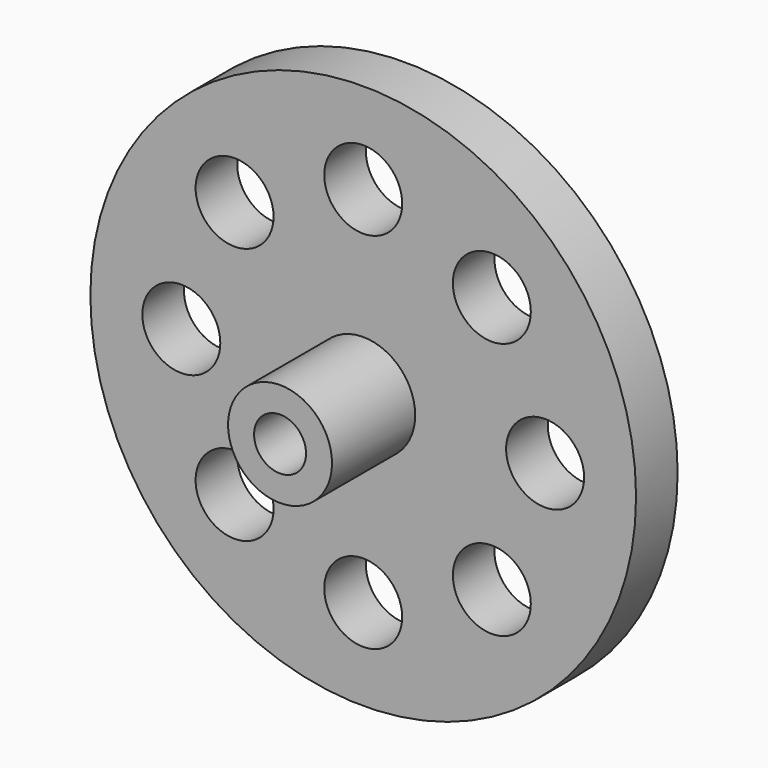
from build123d import *

# Parameters (mm, degrees)
F0_R     = 16.66875
F1_DEPTH = 3.175
F2_R     = 3.175
F3_DEPTH = 6.35
F4_R     = 1.5875
F5_DEPTH = 3.81
F6_R     = 2.38125
F7_DEPTH = 25.4
F8_R     = 1.5875
F9_DEPTH = 1.5875


with BuildPart() as f1:
    # F0 (on Front) → F1 (new body)
    with BuildSketch(Plane.XZ):
        Circle(F0_R)
    extrude(amount=F1_DEPTH)

    # F2 (on face) → F3 (join)
    with BuildSketch(Plane.XZ.offset(3.175)):
        Circle(F2_R)
    extrude(amount=F3_DEPTH)

    # F4 (on face) → F5 (cut)
    with BuildSketch(Plane.XZ.offset(9.525)):
        Circle(F4_R)
    extrude(amount=-F5_DEPTH, mode=Mode.SUBTRACT)

    # F6 (on face) → F7 (cut)
    with BuildSketch(Plane.XZ.offset(3.175)):
        with Locations((11.1125, 0)):
            Circle(F6_R)
        with Locations((7.857724, 7.857724)):
            Circle(F6_R)
        with Locations((0, 11.1125)):
            Circle(F6_R)
        with Locations((-7.857724, 7.857724)):
            Circle(F6_R)
        with Locations((-11.1125, 0)):
            Circle(F6_R)
        with Locations((-7.857724, -7.857724)):
            Circle(F6_R)
        with Locations((0, -11.1125)):
            Circle(F6_R)
        with Locations((7.857724, -7.857724)):
            Circle(F6_R)
    extrude(amount=-F7_DEPTH, mode=Mode.SUBTRACT)

    # F8 (on face) → F9 (join)
    with BuildSketch(Plane(origin=(0, 0, 0), x_dir=(-1, 0, 0), z_dir=(0, 1, 0))):
        Circle(F8_R)
    extrude(amount=F9_DEPTH)


solid = f1.part
